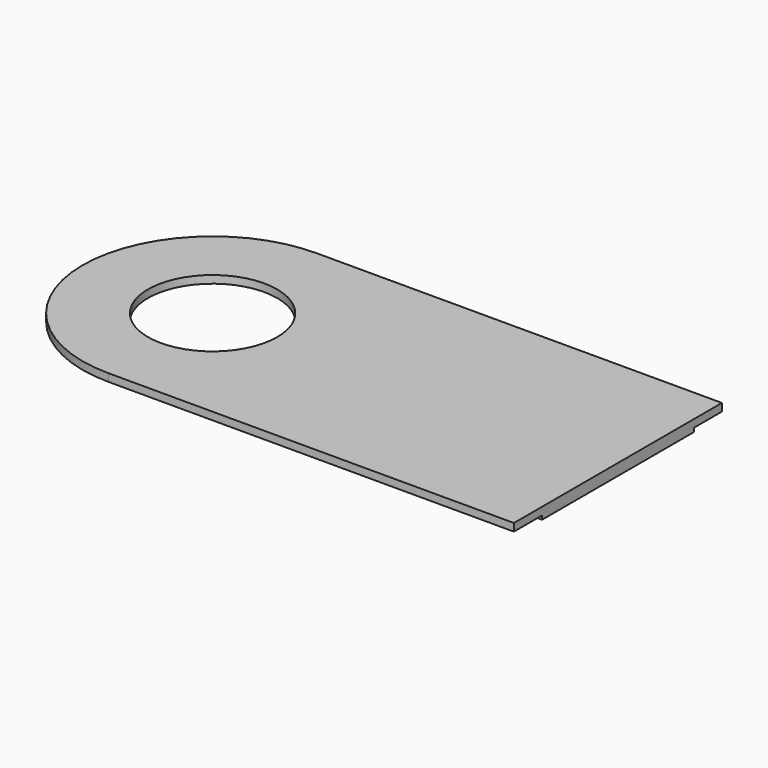
from build123d import *

# Parameters (mm, degrees)
F0_W     = 3.8
F0_H     = 1
F1_DEPTH = 2
F0_R     = 8.45
F0_W_2   = 24.8
F0_H_2   = 24.8
F2_DEPTH = 1
F3_R     = 2.7
F4_DEPTH = 0.5
F5_DEPTH = 1.5


with BuildPart() as f1:
    # F0 (on Top) → F1 (new body)
    with BuildSketch(Plane.XY):
        with Locations((21, 16.5)):
            Rectangle(F0_W, F0_H)
    extrude(amount=-F1_DEPTH)

    # F0 (on Top) → F2 (join)
    with BuildSketch(Plane.XY):
        with BuildLine():
            Line((19.1, 17), (0, 17))
            ThreePointArc((0, 17), (-17, 0), (0, -17))
            Line((0, -17), (53, -17))
            Line((53, -17), (53, -12.4))
            Line((53, -12.4), (28.2, -12.4))
            Line((28.2, -12.4), (28.2, 12.4))
            Line((28.2, 12.4), (53, 12.4))
            Line((53, 12.4), (53, 17))
            Line((53, 17), (22.9, 17))
            Line((22.9, 17), (22.9, 16))
            Line((22.9, 16), (19.1, 16))
            Line((19.1, 16), (19.1, 17))
        make_face()
        Circle(F0_R, mode=Mode.SUBTRACT)
        with Locations((21, 16.5)):
            Rectangle(F0_W, F0_H)
        with Locations((40.6, 0)):
            Rectangle(F0_W_2, F0_H_2)
    extrude(amount=-F2_DEPTH)

    # F3 (on face) → F4 (cut)
    with BuildSketch(Plane(origin=(0, 0, -1), x_dir=(1, 0, 0), z_dir=(0, 0, -1))):
        with Locations((19, 0)):
            Circle(F3_R)
    extrude(amount=-F4_DEPTH, mode=Mode.SUBTRACT)

    # F0 (on Top) → F5 (join)
    with BuildSketch(Plane.XY):
        with Locations((40.6, 0)):
            Rectangle(F0_W_2, F0_H_2)
    extrude(amount=-F5_DEPTH)


solid = f1.part
